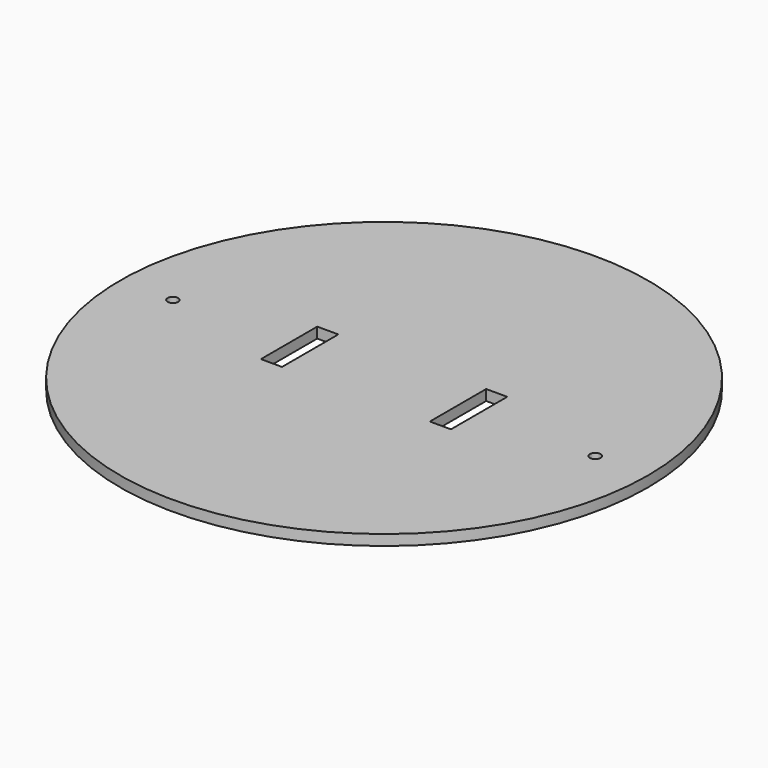
from build123d import *

# Parameters (mm, degrees)
F0_R     = 150
F0_R_2   = 3
F0_W     = 12
F0_H     = 40
F1_DEPTH = 3


with BuildPart() as f1:
    # F0 (on Top) → F1 (new body, symmetric)
    with BuildSketch(Plane.XY):
        Circle(F0_R)
        with Locations((-120, 0)):
            Circle(F0_R_2, mode=Mode.SUBTRACT)
        with Locations((-48, 0)):
            Rectangle(F0_W, F0_H, mode=Mode.SUBTRACT)
        with Locations((48, 0)):
            Rectangle(F0_W, F0_H, mode=Mode.SUBTRACT)
        with Locations((120, 0)):
            Circle(F0_R_2, mode=Mode.SUBTRACT)
    extrude(amount=F1_DEPTH, both=True)


solid = f1.part
